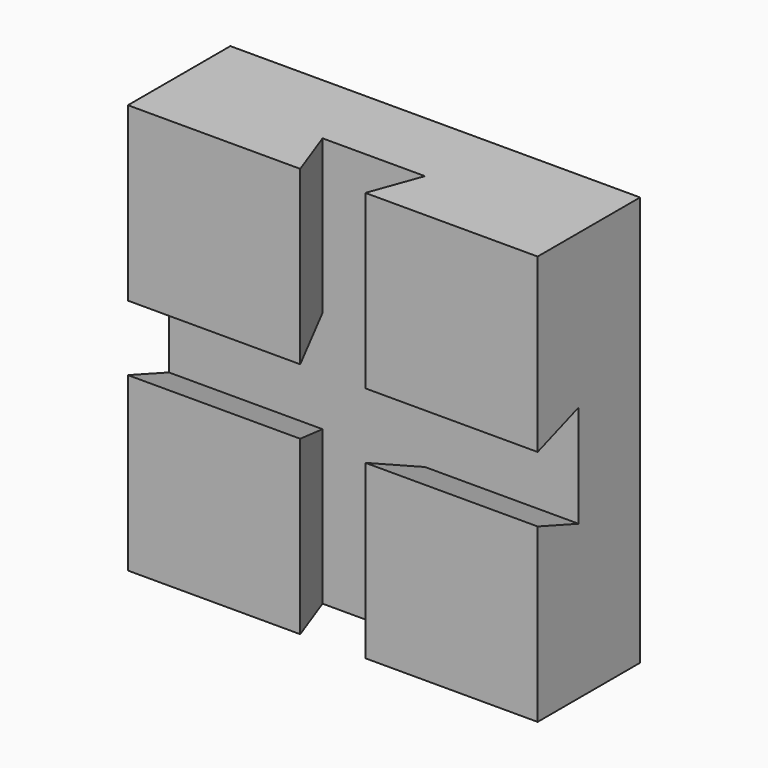
from build123d import *

# Parameters (mm, degrees)
F1_DEPTH = 25
F3_DEPTH = 80
F5_DEPTH = 80


with BuildPart() as f1:
    # F0 (on Front) → F1 (new body)
    with BuildSketch(Plane.XZ):
        Polygon((-80, 0), (0, 0), (0, 33.64), (0, 80), (-80, 80), align=None)
    extrude(amount=F1_DEPTH)

    # F2 (on face) → F3 (cut)
    with BuildSketch(Plane(origin=(0, 0, 0), x_dir=(1, 0, 0), z_dir=(0, 0, -1))):
        Polygon((-33.64, 25), (-46.36, 25), (-50, 15), (-30, 15), align=None)
    extrude(amount=-F3_DEPTH, mode=Mode.SUBTRACT)

    # F4 (on Right) → F5 (cut)
    with BuildSketch(Plane.YZ):
        Polygon((-25.113055, 33.64), (-15, 30), (-15, 50), (-25.113055, 46.36), align=None)
    extrude(amount=-F5_DEPTH, mode=Mode.SUBTRACT)


solid = f1.part
